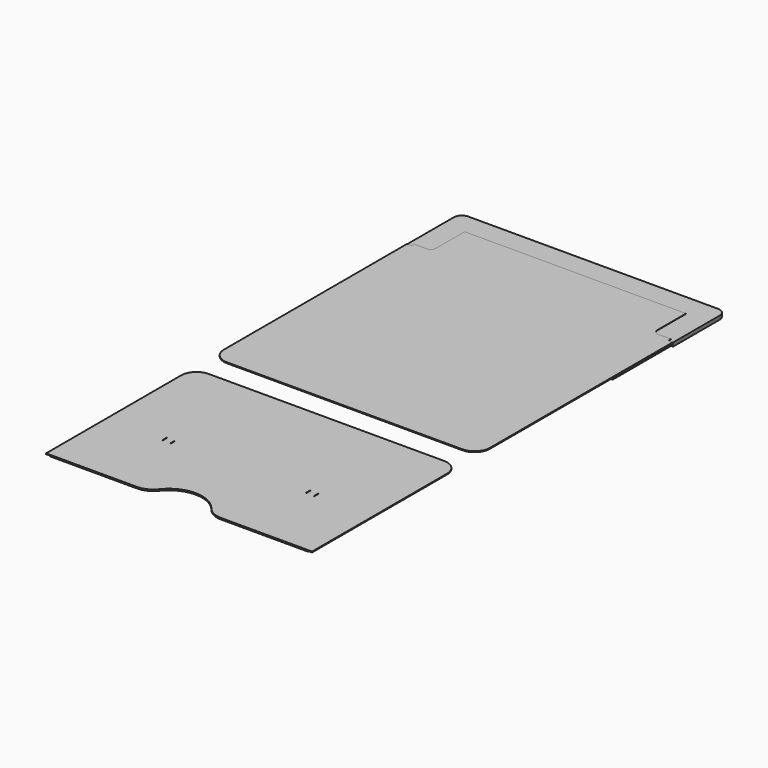
from build123d import *

# Parameters (mm, degrees)
F0_W      = 0.5
F0_H      = 5.5
F1_DEPTH  = 0.8
F2_DEPTH  = 0.9
F3_DEPTH  = 0.9
F4_DEPTH  = 0.6
F6_DEPTH  = 0.6
F8_DEPTH  = 0.9
F9_W      = 1
F9_H      = 5.5
F9_R      = 2.5
F10_DEPTH = 0.6
F12_DEPTH = 0.6


with BuildPart() as f1:
    # F0 (on Top) → F1 (new body)
    with BuildSketch(Plane.XY):
        with BuildLine():
            Line((-130, -253.03), (-41.231056, -253.03))
            ThreePointArc((-41.231056, -253.03), (-32.502341, -251.024708), (-25.523987, -245.410952))
            ThreePointArc((-25.523987, -245.410952), (0, -233.03), (25.523987, -245.410952))
            ThreePointArc((25.523987, -245.410952), (32.502341, -251.024708), (41.231056, -253.03))
            Line((41.231056, -253.03), (130, -253.03))
            Line((130, -253.03), (130, -88.03))
            ThreePointArc((130, -88.03), (125.606602, -77.423398), (115, -73.03))
            Line((115, -73.03), (-115, -73.03))
            ThreePointArc((-115, -73.03), (-125.606602, -77.423398), (-130, -88.03))
            Line((-130, -88.03), (-130, -253.03))
        make_face()
        with Locations((-74, -178.03)):
            Rectangle(F0_W, F0_H, mode=Mode.SUBTRACT)
        with Locations((-66, -178.03)):
            Rectangle(F0_W, F0_H, mode=Mode.SUBTRACT)
        with Locations((66, -178.03)):
            Rectangle(F0_W, F0_H, mode=Mode.SUBTRACT)
        with Locations((74, -178.03)):
            Rectangle(F0_W, F0_H, mode=Mode.SUBTRACT)
    extrude(amount=-F1_DEPTH)


with BuildPart() as f2:
    # F0 (on Top) → F2 (new body)
    with BuildSketch(Plane.XY):
        with BuildLine():
            Line((130, 129.37), (130, 188.09))
            Line((130, 188.09), (125.5, 188.09))
            Line((125.5, 188.09), (113.19292, 188.09))
            ThreePointArc((113.19292, 188.09), (107.536066, 190.433146), (105.19292, 196.09))
            Line((105.19292, 196.09), (105.19292, 228.22292))
            Line((105.19292, 228.22292), (-105.19292, 228.22292))
            Line((-105.19292, 228.22292), (-105.19292, 196.09))
            ThreePointArc((-105.19292, 196.09), (-107.536066, 190.433146), (-113.19292, 188.09))
            Line((-113.19292, 188.09), (-125.5, 188.09))
            Line((-125.5, 188.09), (-130, 188.09))
            Line((-130, 188.09), (-130, 129.37))
            Line((-130, 129.37), (-130, -35.63))
            ThreePointArc((-130, -35.63), (-125.606602, -46.236602), (-115, -50.63))
            Line((-115, -50.63), (115, -50.63))
            ThreePointArc((115, -50.63), (125.606602, -46.236602), (130, -35.63))
            Line((130, -35.63), (130, 129.37))
        make_face()
        with BuildLine():
            Line((113.19292, 188.09), (125.5, 188.09))
            Line((125.5, 188.09), (125.5, 191.09))
            Line((125.5, 191.09), (113.19292, 191.09))
            ThreePointArc((113.19292, 191.09), (109.657386, 192.554466), (108.19292, 196.09))
            Line((108.19292, 196.09), (108.19292, 231.22292))
            Line((108.19292, 231.22292), (-108.19292, 231.22292))
            Line((-108.19292, 231.22292), (-108.19292, 196.09))
            ThreePointArc((-108.19292, 196.09), (-109.657386, 192.554466), (-113.19292, 191.09))
            Line((-113.19292, 191.09), (-125.5, 191.09))
            Line((-125.5, 191.09), (-125.5, 188.09))
            Line((-125.5, 188.09), (-113.19292, 188.09))
            ThreePointArc((-113.19292, 188.09), (-107.536066, 190.433146), (-105.19292, 196.09))
            Line((-105.19292, 196.09), (-105.19292, 228.22292))
            Line((-105.19292, 228.22292), (105.19292, 228.22292))
            Line((105.19292, 228.22292), (105.19292, 196.09))
            ThreePointArc((105.19292, 196.09), (107.536066, 190.433146), (113.19292, 188.09))
        make_face()
    extrude(amount=F2_DEPTH)


with BuildPart() as f3:
    # F0 (on Top) → F3 (new body)
    with BuildSketch(Plane.XY):
        with BuildLine():
            ThreePointArc((130, 245.03), (127.656854, 250.686854), (122, 253.03))
            Line((122, 253.03), (-122, 253.03))
            ThreePointArc((-122, 253.03), (-127.656854, 250.686854), (-130, 245.03))
            Line((-130, 245.03), (-130, 188.09))
            Line((-130, 188.09), (-125.5, 188.09))
            Line((-125.5, 188.09), (-125.5, 191.09))
            Line((-125.5, 191.09), (-113.19292, 191.09))
            ThreePointArc((-113.19292, 191.09), (-109.657386, 192.554466), (-108.19292, 196.09))
            Line((-108.19292, 196.09), (-108.19292, 231.22292))
            Line((-108.19292, 231.22292), (108.19292, 231.22292))
            Line((108.19292, 231.22292), (108.19292, 196.09))
            ThreePointArc((108.19292, 196.09), (109.657386, 192.554466), (113.19292, 191.09))
            Line((113.19292, 191.09), (125.5, 191.09))
            Line((125.5, 191.09), (125.5, 188.09))
            Line((125.5, 188.09), (130, 188.09))
            Line((130, 188.09), (130, 245.03))
        make_face()
    extrude(amount=-F3_DEPTH)


with BuildPart() as f4:
    # F0 (on Top) → F4 (new body)
    with BuildSketch(Plane.XY):
        with BuildLine():
            Line((113.19292, 188.09), (125.5, 188.09))
            Line((125.5, 188.09), (125.5, 191.09))
            Line((125.5, 191.09), (113.19292, 191.09))
            ThreePointArc((113.19292, 191.09), (109.657386, 192.554466), (108.19292, 196.09))
            Line((108.19292, 196.09), (108.19292, 231.22292))
            Line((108.19292, 231.22292), (-108.19292, 231.22292))
            Line((-108.19292, 231.22292), (-108.19292, 196.09))
            ThreePointArc((-108.19292, 196.09), (-109.657386, 192.554466), (-113.19292, 191.09))
            Line((-113.19292, 191.09), (-125.5, 191.09))
            Line((-125.5, 191.09), (-125.5, 188.09))
            Line((-125.5, 188.09), (-113.19292, 188.09))
            ThreePointArc((-113.19292, 188.09), (-107.536066, 190.433146), (-105.19292, 196.09))
            Line((-105.19292, 196.09), (-105.19292, 228.22292))
            Line((-105.19292, 228.22292), (105.19292, 228.22292))
            Line((105.19292, 228.22292), (105.19292, 196.09))
            ThreePointArc((105.19292, 196.09), (107.536066, 190.433146), (113.19292, 188.09))
        make_face()
        with BuildLine():
            ThreePointArc((130, 245.03), (127.656854, 250.686854), (122, 253.03))
            Line((122, 253.03), (-122, 253.03))
            ThreePointArc((-122, 253.03), (-127.656854, 250.686854), (-130, 245.03))
            Line((-130, 245.03), (-130, 188.09))
            Line((-130, 188.09), (-125.5, 188.09))
            Line((-125.5, 188.09), (-125.5, 191.09))
            Line((-125.5, 191.09), (-113.19292, 191.09))
            ThreePointArc((-113.19292, 191.09), (-109.657386, 192.554466), (-108.19292, 196.09))
            Line((-108.19292, 196.09), (-108.19292, 231.22292))
            Line((-108.19292, 231.22292), (108.19292, 231.22292))
            Line((108.19292, 231.22292), (108.19292, 196.09))
            ThreePointArc((108.19292, 196.09), (109.657386, 192.554466), (113.19292, 191.09))
            Line((113.19292, 191.09), (125.5, 191.09))
            Line((125.5, 191.09), (125.5, 188.09))
            Line((125.5, 188.09), (130, 188.09))
            Line((130, 188.09), (130, 245.03))
        make_face()
    extrude(amount=F4_DEPTH)


with BuildPart() as f6:
    # F5 (on face) → F6 (new body)
    with BuildSketch(Plane(origin=(0, 0, -0.9), x_dir=(1, 0, 0), z_dir=(0, 0, -1))):
        with BuildLine():
            Line((-130, -188.09), (-130, -245.03))
            ThreePointArc((-130, -245.03), (-127.656854, -250.686854), (-122, -253.03))
            Line((-122, -253.03), (122, -253.03))
            ThreePointArc((122, -253.03), (127.656854, -250.686854), (130, -245.03))
            Line((130, -245.03), (130, -188.09))
            Line((130, -188.09), (129.25, -188.09))
            ThreePointArc((129.25, -188.09), (128.276502, -185.569377), (125.861446, -184.35746))
            ThreePointArc((125.861446, -184.35746), (125.60384, -184.228189), (125.5, -183.959322))
            Line((125.5, -183.959322), (125.5, -151.97))
            ThreePointArc((125.5, -151.97), (124.328427, -149.141573), (121.5, -147.97))
            Line((121.5, -147.97), (0, -147.97))
            Line((0, -147.97), (-121.5, -147.97))
            ThreePointArc((-121.5, -147.97), (-124.328427, -149.141573), (-125.5, -151.97))
            Line((-125.5, -151.97), (-125.5, -183.959322))
            ThreePointArc((-125.5, -183.959322), (-125.60384, -184.228189), (-125.861446, -184.35746))
            ThreePointArc((-125.861446, -184.35746), (-128.276502, -185.569377), (-129.25, -188.09))
            Line((-129.25, -188.09), (-130, -188.09))
        make_face()
    extrude(amount=F6_DEPTH)


with BuildPart() as f8:
    # F7 (on face) → F8 (new body)
    with BuildSketch(Plane(origin=(0, 0, -1.5), x_dir=(1, 0, 0), z_dir=(0, 0, -1))):
        with BuildLine():
            Line((-125.5, -191.09), (-125.5, -188.09))
            Line((-125.5, -188.09), (-130, -188.09))
            Line((-130, -188.09), (-130, -245.03))
            ThreePointArc((-130, -245.03), (-127.656854, -250.686854), (-122, -253.03))
            Line((-122, -253.03), (122, -253.03))
            ThreePointArc((122, -253.03), (127.656854, -250.686854), (130, -245.03))
            Line((130, -245.03), (130, -188.09))
            Line((130, -188.09), (125.5, -188.09))
            Line((125.5, -188.09), (125.5, -191.09))
            Line((125.5, -191.09), (113.19292, -191.09))
            ThreePointArc((113.19292, -191.09), (109.657386, -192.554466), (108.19292, -196.09))
            Line((108.19292, -196.09), (108.19292, -209.03))
            Line((108.19292, -209.03), (-108.19292, -209.03))
            Line((-108.19292, -209.03), (-108.19292, -196.09))
            ThreePointArc((-108.19292, -196.09), (-109.657386, -192.554466), (-113.19292, -191.09))
            Line((-113.19292, -191.09), (-125.5, -191.09))
        make_face()
        with BuildLine():
            ThreePointArc((-62.928932, -233.53), (-70, -238.53), (-77.071068, -233.53))
            Line((-77.071068, -233.53), (-79, -233.53))
            ThreePointArc((-79, -233.53), (-81.5, -231.03), (-79, -228.53))
            Line((-79, -228.53), (-77.071068, -228.53))
            ThreePointArc((-77.071068, -228.53), (-70, -223.53), (-62.928932, -228.53))
            Line((-62.928932, -228.53), (-61, -228.53))
            ThreePointArc((-61, -228.53), (-58.5, -231.03), (-61, -233.53))
            Line((-61, -233.53), (-62.928932, -233.53))
        make_face(mode=Mode.SUBTRACT)
        with BuildLine():
            Line((79, -233.53), (77.071068, -233.53))
            ThreePointArc((77.071068, -233.53), (70, -238.53), (62.928932, -233.53))
            Line((62.928932, -233.53), (61, -233.53))
            ThreePointArc((61, -233.53), (58.5, -231.03), (61, -228.53))
            Line((61, -228.53), (62.928932, -228.53))
            ThreePointArc((62.928932, -228.53), (70, -223.53), (77.071068, -228.53))
            Line((77.071068, -228.53), (79, -228.53))
            ThreePointArc((79, -228.53), (81.5, -231.03), (79, -233.53))
        make_face(mode=Mode.SUBTRACT)
    extrude(amount=F8_DEPTH)


with BuildPart() as f10:
    # F9 (on face) → F10 (new body)
    with BuildSketch(Plane(origin=(0, 0, -2.4), x_dir=(1, 0, 0), z_dir=(0, 0, -1))):
        with BuildLine():
            Line((-130, -188.09), (-130, -245.03))
            ThreePointArc((-130, -245.03), (-127.656854, -250.686854), (-122, -253.03))
            Line((-122, -253.03), (122, -253.03))
            ThreePointArc((122, -253.03), (127.656854, -250.686854), (130, -245.03))
            Line((130, -245.03), (130, -188.09))
            Line((130, -188.09), (113.19292, -188.09))
            ThreePointArc((113.19292, -188.09), (107.536066, -190.433146), (105.19292, -196.09))
            Line((105.19292, -196.09), (105.19292, -205.03))
            Line((105.19292, -205.03), (-105.19292, -205.03))
            Line((-105.19292, -205.03), (-105.19292, -196.09))
            ThreePointArc((-105.19292, -196.09), (-107.536066, -190.433146), (-113.19292, -188.09))
            Line((-113.19292, -188.09), (-130, -188.09))
        make_face()
        with Locations((-74.25, -231.03)):
            Rectangle(F9_W, F9_H, mode=Mode.SUBTRACT)
        with Locations((-70, -231.03)):
            Circle(F9_R, mode=Mode.SUBTRACT)
        with Locations((-65.75, -231.03)):
            Rectangle(F9_W, F9_H, mode=Mode.SUBTRACT)
        with Locations((65.75, -231.03)):
            Rectangle(F9_W, F9_H, mode=Mode.SUBTRACT)
        with Locations((70, -231.03)):
            Circle(F9_R, mode=Mode.SUBTRACT)
        with Locations((74.25, -231.03)):
            Rectangle(F9_W, F9_H, mode=Mode.SUBTRACT)
    extrude(amount=F10_DEPTH)


with BuildPart() as f12:
    # F11 (on face) → F12 (new body)
    with BuildSketch(Plane(origin=(0, 0, -0.8), x_dir=(1, 0, 0), z_dir=(0, 0, -1))):
        with BuildLine():
            Line((126, 88.03), (126, 253.03))
            Line((126, 253.03), (41.231056, 253.03))
            ThreePointArc((41.231056, 253.03), (32.502341, 251.024708), (25.523987, 245.410952))
            ThreePointArc((25.523987, 245.410952), (0, 233.03), (-25.523987, 245.410952))
            ThreePointArc((-25.523987, 245.410952), (-32.502341, 251.024708), (-41.231056, 253.03))
            Line((-41.231056, 253.03), (-126, 253.03))
            Line((-126, 253.03), (-126, 88.03))
            ThreePointArc((-126, 88.03), (-122.778175, 80.251825), (-115, 77.03))
            Line((-115, 77.03), (115, 77.03))
            ThreePointArc((115, 77.03), (122.778175, 80.251825), (126, 88.03))
        make_face()
        with BuildLine():
            Line((125.5, -188.09), (130, -188.09))
            Line((130, -188.09), (130, -114.37))
            Line((130, -114.37), (126, -114.37))
            Line((126, -114.37), (126, 35.63))
            ThreePointArc((126, 35.63), (122.778175, 43.408175), (115, 46.63))
            Line((115, 46.63), (-115, 46.63))
            ThreePointArc((-115, 46.63), (-122.778175, 43.408175), (-126, 35.63))
            Line((-126, 35.63), (-126, -114.37))
            Line((-126, -114.37), (-130, -114.37))
            Line((-130, -114.37), (-130, -188.09))
            Line((-130, -188.09), (-125.5, -188.09))
            Line((-125.5, -188.09), (-125.5, -191.09))
            Line((-125.5, -191.09), (-113.19292, -191.09))
            ThreePointArc((-113.19292, -191.09), (-109.657386, -192.554466), (-108.19292, -196.09))
            Line((-108.19292, -196.09), (-108.19292, -205.03))
            Line((-108.19292, -205.03), (108.19292, -205.03))
            Line((108.19292, -205.03), (108.19292, -196.09))
            ThreePointArc((108.19292, -196.09), (109.657386, -192.554466), (113.19292, -191.09))
            Line((113.19292, -191.09), (125.5, -191.09))
            Line((125.5, -191.09), (125.5, -188.09))
        make_face()
    extrude(amount=F12_DEPTH)


solid = Compound([f1.part, f2.part, f3.part, f4.part, f6.part, f8.part, f10.part, f12.part])
